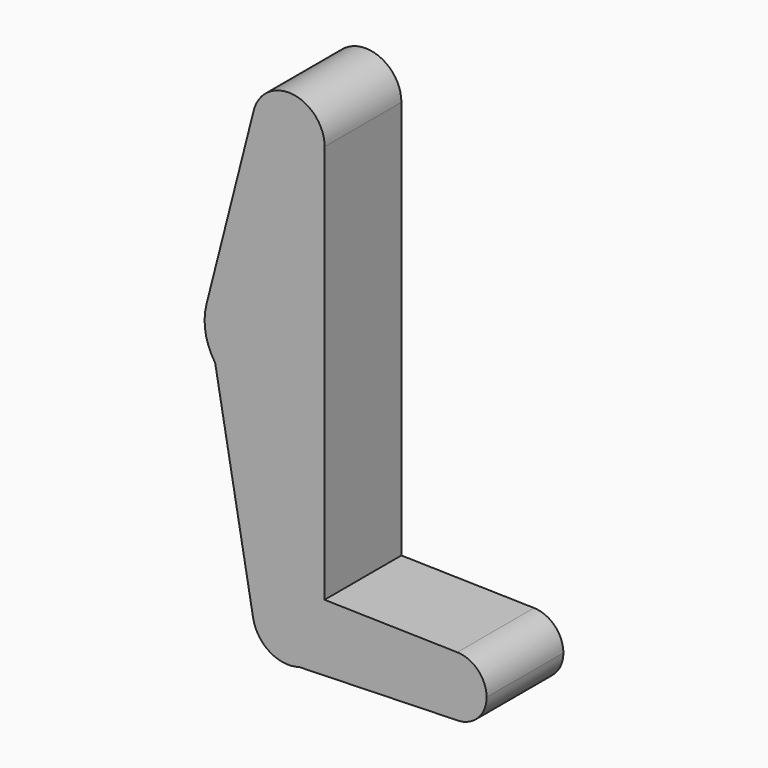
from build123d import *

# Parameters (mm, degrees)
F1_DEPTH = 25.4


with BuildPart() as f1:
    # F0 (on Front) → F1 (new body)
    with BuildSketch(Plane.XZ):
        with BuildLine():
            Line((9.525, 8.7527561023), (9.525, 0))
            Line((9.525, 0), (36.5125, 0))
            ThreePointArc((36.5125, 0), (38.9030422631, 5.6776021448), (44.6347465801, 7.9353497057))
            Line((44.6347465801, 7.9353497057), (9.525, 8.7527561023))
        make_face()
        with BuildLine():
            ThreePointArc((2.7988590243, -9.1045051025), (7.6610951308, -5.6597920807), (9.525, 0))
            ThreePointArc((9.525, 0), (7.8475369963, 5.3983134488), (3.4059893771, 8.8952156445))
            ThreePointArc((3.4059893771, 8.8952156445), (-6.070940752, 7.3395710628), (-9.3761147481, -1.6775271174))
            ThreePointArc((-9.3761147481, -1.6775271174), (-4.9603501602, -8.1314544387), (2.7988590243, -9.1045051025))
        make_face()
        with BuildLine():
            Line((36.5125, 0), (9.525, 0))
            ThreePointArc((9.525, 0), (7.6610951308, -5.6597920807), (2.7988590243, -9.1045051025))
            Line((2.7988590243, -9.1045051025), (44.1424381886, -7.9315390677))
            ThreePointArc((44.1424381886, -7.9315390677), (38.7296338348, -5.5028462804), (36.5125, 0))
        make_face()
        with BuildLine():
            ThreePointArc((3.4059893771, 8.8952156445), (7.8475369963, 5.3983134488), (9.525, 0))
            Line((9.525, 0), (9.525, 8.7527561023))
            Line((9.525, 8.7527561023), (3.4059893771, 8.8952156445))
        make_face()
        with BuildLine():
            ThreePointArc((44.6347465801, 7.9353497057), (38.9030422631, 5.6776021448), (36.5125, 0))
            ThreePointArc((36.5125, 0), (38.7296338348, -5.5028462804), (44.1424381886, -7.9315390677))
            Line((44.1424381886, -7.9315390677), (45.2067593241, -7.9013430235))
            ThreePointArc((45.2067593241, -7.9013430235), (50.3241247597, -5.3384046828), (52.3875, 0))
            ThreePointArc((52.3875, 0), (50.1276021448, 5.5469577369), (44.6347465801, 7.9353497057))
        make_face()
        with BuildLine():
            ThreePointArc((-9.3761147481, -1.6775271174), (-6.070940752, 7.3395710628), (3.4059893771, 8.8952156445))
            Line((3.4059893771, 8.8952156445), (9.525, 8.7527561023))
            Line((9.525, 8.7527561023), (9.525, 63.5))
            ThreePointArc((9.525, 63.5), (-1.6373871883, 48.3406165862), (-19.427051085, 54.499646678))
            Line((-19.427051085, 54.499646678), (-9.3761147481, -1.6775271174))
        make_face()
        with BuildLine():
            Line((45.2067593241, -7.9013430235), (44.1424381886, -7.9315390677))
            ThreePointArc((44.1424381886, -7.9315390677), (44.6751056455, -7.9343073862), (45.2067593241, -7.9013430235))
        make_face()
        with BuildLine():
            ThreePointArc((-19.427051085, 54.499646678), (-1.6373871883, 48.3406165862), (9.525, 63.5))
            ThreePointArc((9.525, 63.5), (-4.3808953568, 79.2524046388), (-21.7365120509, 67.407796298))
            Line((-21.7365120509, 67.407796298), (-19.427051085, 54.499646678))
        make_face()
        with BuildLine():
            ThreePointArc((-21.7365120509, 67.407796298), (-4.3808953568, 79.2524046388), (9.525, 63.5))
            Line((9.525, 63.5), (9.525, 70.5978151911))
            Line((9.525, 70.5978151911), (9.525, 114.3))
            ThreePointArc((9.525, 114.3), (9.5201459262, 113.9959497671), (9.5055886521, 113.6922094307))
            ThreePointArc((9.5055886521, 113.6922094307), (9.5015142779, 113.6315305345), (9.4970525641, 113.5708788893))
            ThreePointArc((9.4970525641, 113.5708788893), (-1.5026899485, 104.8942811057), (-9.2514820981, 116.5662091669))
            Line((-9.2514820981, 116.5662091669), (-21.7365120509, 67.407796298))
        make_face()
        with BuildLine():
            ThreePointArc((-21.7365120509, 67.407796298), (-21.9768579136, 60.704121471), (-19.427051085, 54.499646678))
            Line((-19.427051085, 54.499646678), (-21.7365120509, 67.407796298))
        make_face()
        with BuildLine():
            ThreePointArc((9.525, 114.3), (1.1413277389, 123.7563733002), (-9.2514820981, 116.5662091669))
            ThreePointArc((-9.2514820981, 116.5662091669), (-1.5026899485, 104.8942811057), (9.4970525641, 113.5708788893))
            Line((9.4970525641, 113.5708788893), (9.525, 114.3))
        make_face()
        with BuildLine():
            ThreePointArc((9.5055886521, 113.6922094307), (9.5201459262, 113.9959497671), (9.525, 114.3))
            Line((9.525, 114.3), (9.5055886521, 113.6922094307))
        make_face()
        with BuildLine():
            Line((9.5055886521, 113.6922094307), (9.525, 114.3))
            Line((9.525, 114.3), (9.4970525641, 113.5708788893))
            ThreePointArc((9.4970525641, 113.5708788893), (9.5015142779, 113.6315305345), (9.5055886521, 113.6922094307))
        make_face()
    extrude(amount=F1_DEPTH)


solid = f1.part
